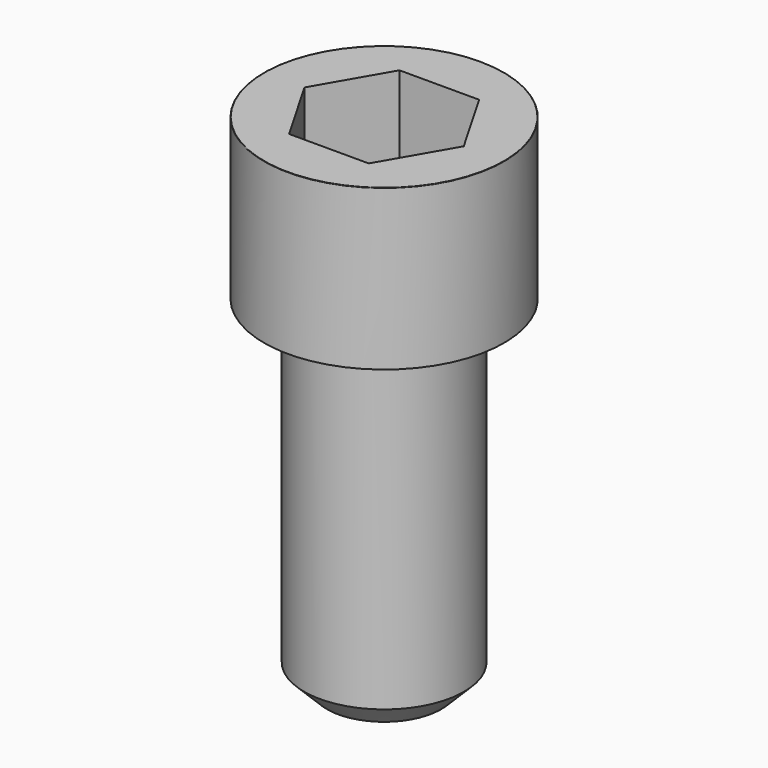
from build123d import *

# Parameters (mm, degrees)
POCKET_DEPTH = 12.07


with BuildPart() as part:
    # Sketch → Revolve (revolve)
    with BuildSketch(Plane.YZ):
        with BuildLine():
            Line((6.999, 0), (10.5, 0))
            Line((10.5, 0), (10.5, 13.97229))
            ThreePointArc((10.5, 13.97229), (10.491884, 13.991884), (10.47229, 14))
            Line((10.47229, 14), (0, 14))
            Line((0, -30), (0, 14))
            Line((5, -30), (0, -30))
            Line((7, -28), (5, -30))
            Line((7, -0.2), (7, -28))
            Line((6.999, 0), (7, -0.2))
        make_face()
    revolve(axis=Axis((0, 0, 0), (0, 0, 1)))

    # Sketch001 → Pocket (cut)
    with BuildSketch(Plane.XY.offset(14)):
        Polygon((6.968618, 0), (3.484309, 6.035), (-3.484309, 6.035), (-6.968618, 0), (-3.484309, -6.035), (3.484309, -6.035), align=None)
    extrude(amount=-POCKET_DEPTH, mode=Mode.SUBTRACT)


solid = part.part
